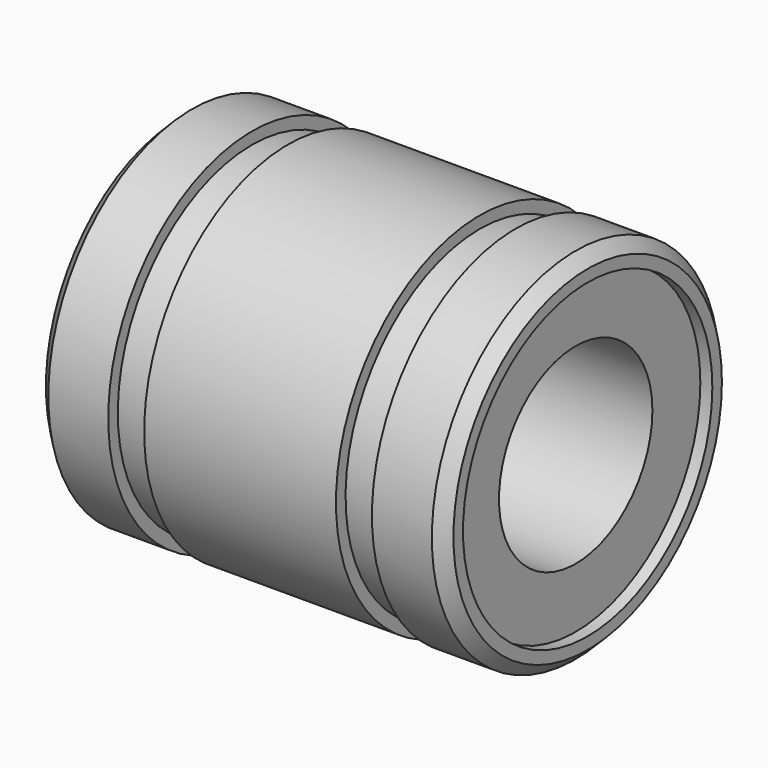
from build123d import *

# Parameters (mm, degrees)
F0_R     = 7.5
F0_R_2   = 4
F1_DEPTH = 8.5
F2_R     = 6.5
F3_DEPTH = 0.5
F4_R     = 6.5
F5_DEPTH = 0.5
F6_W     = 1.5
F6_H     = 1
F8_SIZE  = 0.5


with BuildPart() as f1:
    # F0 (on Right) → F1 (new body, symmetric)
    with BuildSketch(Plane.YZ):
        Circle(F0_R)
        Circle(F0_R_2, mode=Mode.SUBTRACT)
    extrude(amount=F1_DEPTH, both=True)

    # F2 (on face) → F3 (cut)
    with BuildSketch(Plane.YZ.offset(8.5)):
        Circle(F2_R)
    extrude(amount=-F3_DEPTH, mode=Mode.SUBTRACT)

    # F4 (on face) → F5 (cut)
    with BuildSketch(Plane(origin=(-8.5, 0, 0), x_dir=(0, -1, 0), z_dir=(-1, 0, 0))):
        Circle(F4_R)
    extrude(amount=-F5_DEPTH, mode=Mode.SUBTRACT)

    # F6 (on Front) → F7 (revolve, cut)
    with BuildSketch(Plane.XZ):
        with Locations((-4.75, 7.5)):
            Rectangle(F6_W, F6_H)
        with Locations((4.75, 7.5)):
            Rectangle(F6_W, F6_H)
    revolve(axis=Axis((0, 0, 0), (1, 0, 0)), mode=Mode.SUBTRACT)

    # F8
    f8_edges = [f1.edges().sort_by_distance(p)[0] for p in [
        (-8.5, -7.5, 0),
        (8.5, -7.5, 0),
    ]]
    chamfer(f8_edges, length=F8_SIZE)


solid = f1.part
